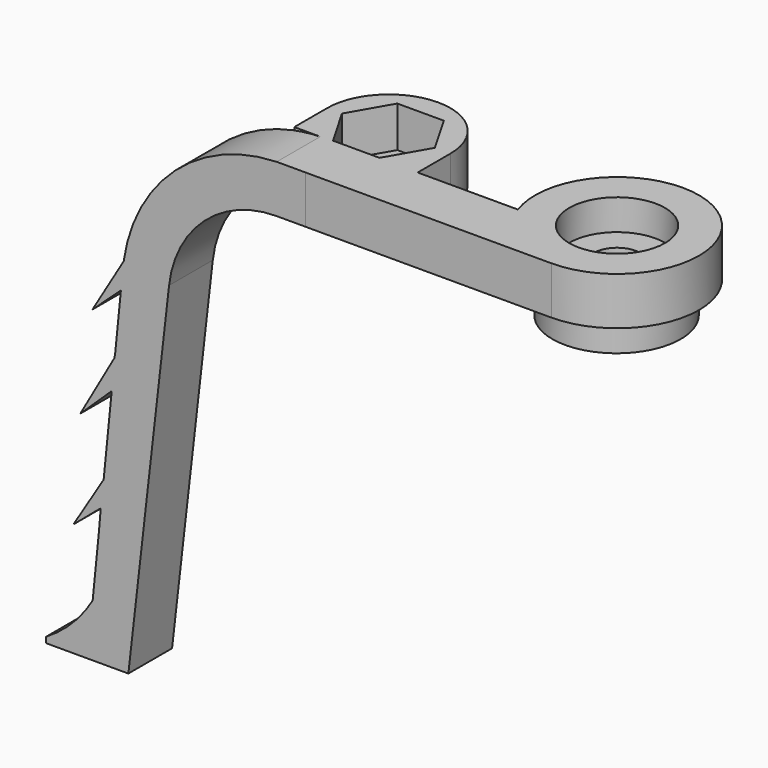
from build123d import *

# Parameters (mm, degrees)
PAD022_DEPTH       = 2
PAD023_DEPTH       = 3.5
SKETCH036_R        = 3.5
POCKET003017_DEPTH = 2.25
SKETCH037_R        = 4.702209
PAD024_DEPTH       = 2.2
SKETCH038_R        = 1.7
POCKET003018_DEPTH = 5
PAD027_DEPTH       = 3.5
SKETCH044_R        = 1.7
POCKET003021_DEPTH = 5
POCKET003037_DEPTH = 3
PAD042_DEPTH       = 4


with BuildPart() as obj1:
    # Sketch034 → Pad022 (new body, symmetric)
    with BuildSketch(Plane.XZ):
        with BuildLine():
            Line((0, 28.012352), (20.118014, 28.012352))
            ThreePointArc((27.996705, 20.985645), (25.39647, 26.000475), (20.118014, 28.012352))
            Line((27.996705, 20.985645), (30.977077, -4.999855))
            Line((33.977077, -4.999855), (30.977077, -4.999855))
            Line((31.375086, 21.001563), (33.977077, -4.999855))
            ThreePointArc((31.375086, 21.001563), (27.724484, 28.375327), (20.118014, 31.512352))
            Line((0, 31.512352), (20.118014, 31.512352))
            Line((0, 28.012352), (0, 31.512352))
        make_face()
    extrude(amount=PAD022_DEPTH, both=True)

    # Sketch035 → Pad023 (new body)
    with BuildSketch(Plane(origin=(0, 0, 31.512352), x_dir=(-1, 0, 0), z_dir=(0, 0, 1))):
        with BuildLine():
            Line((-18, 2.000987), (0, 2.000987))
            ThreePointArc((2e-06, -10.000993), (6.00099, -4.000002), (0, 2.000987))
            ThreePointArc((-5.657903, -2), (-4.899687, -7.464818), (2e-06, -10.000993))
            Line((-18, -2), (-5.657903, -2))
            Line((-18, 2.000987), (-18, -2))
        make_face()
    extrude(amount=-PAD023_DEPTH)

    # Sketch036 → Pocket003017 (cut)
    with BuildSketch(Plane(origin=(0, 0, 31.512352), x_dir=(-1, 0, 0), z_dir=(0, 0, 1))):
        with Locations((0, -4)):
            Circle(SKETCH036_R)
    extrude(amount=-POCKET003017_DEPTH, mode=Mode.SUBTRACT)

    # Sketch037 → Pad024 (new body)
    with BuildSketch(Plane(origin=(0, 0, 28.012352), x_dir=(1, 0, 0), z_dir=(0, 0, -1))):
        with Locations((-0.089106, -3.841625)):
            Circle(SKETCH037_R)
    extrude(amount=PAD024_DEPTH)

    # Sketch038 → Pocket003018 (cut)
    with BuildSketch(Plane(origin=(0, 0, 25.812352), x_dir=(1, 0, 0), z_dir=(0, 0, -1))):
        with Locations((-0.080471, -3.899184)):
            Circle(SKETCH038_R)
    extrude(amount=-POCKET003018_DEPTH, mode=Mode.SUBTRACT)

    # Sketch043 → Pad027 (new body)
    with BuildSketch(Plane(origin=(0, 0, 31.512352), x_dir=(-1, 0, 0), z_dir=(0, 0, 1))):
        with BuildLine():
            Line((-22.021201, -1.987049), (-22.021201, -4.986919))
            ThreePointArc((-22.021201, -4.986919), (-17.510002, -9.511218), (-12.998803, -4.986919))
            Line((-12.998803, -4.986919), (-12.998803, -1.987049))
            Line((-22.021201, -1.987049), (-12.998803, -1.987049))
        make_face()
    extrude(amount=-PAD027_DEPTH)

    # Sketch044 → Pocket003021 (cut)
    with BuildSketch(Plane(origin=(0, 0, 31.512352), x_dir=(-1, 0, 0), z_dir=(0, 0, 1))):
        with Locations((-17.491917, -5)):
            Circle(SKETCH044_R)
    extrude(amount=-POCKET003021_DEPTH, mode=Mode.SUBTRACT)

    # Sketch071 → Pocket003037 (cut)
    with BuildSketch(Plane(origin=(0, 0, 31.512352), x_dir=(-1, 0, 0), z_dir=(0, 0, 1))):
        Polygon((-14.138998, -5.003928), (-15.835596, -2.057479), (-19.235593, -2.053552), (-20.938994, -4.996072), (-19.242396, -7.942521), (-15.842399, -7.946448), align=None)
    extrude(amount=-POCKET003037_DEPTH, mode=Mode.SUBTRACT)

    # Sketch072 → Pad042 (new body)
    with BuildSketch(Plane.XZ.offset(2)):
        with BuildLine():
            Line((27, 28.536497), (32.513573, -5))
            Line((32.513573, -5), (37.000002, -5))
            Line((37.000002, -5), (37.000002, -4.583553))
            ThreePointArc((33.505627, -1), (35.019116, -3.019659), (37.000002, -4.583553))
            Line((33, 5), (33.505627, -1))
            Line((35, 3.304739), (33, 5))
            Line((32.728943, 7), (35, 3.304739))
            Line((32, 13), (32.728943, 7))
            Line((34.496559, 10.608005), (32, 13))
            Line((32, 15), (34.496559, 10.608005))
            Line((31, 20), (32, 15))
            Line((33.606815, 17.606869), (31, 20))
            Line((31, 22), (33.606815, 17.606869))
            Line((27, 28.536497), (31, 22))
        make_face()
    extrude(amount=-PAD042_DEPTH)


with BuildPart() as part_mirroring011:
    # Part__Mirroring011: instance of obj1
    add(obj1.part.mirror(Plane(origin=(0, 0, 0), x_dir=(0, -1, 0), z_dir=(1, 0, 0))))


solid = part_mirroring011.part
